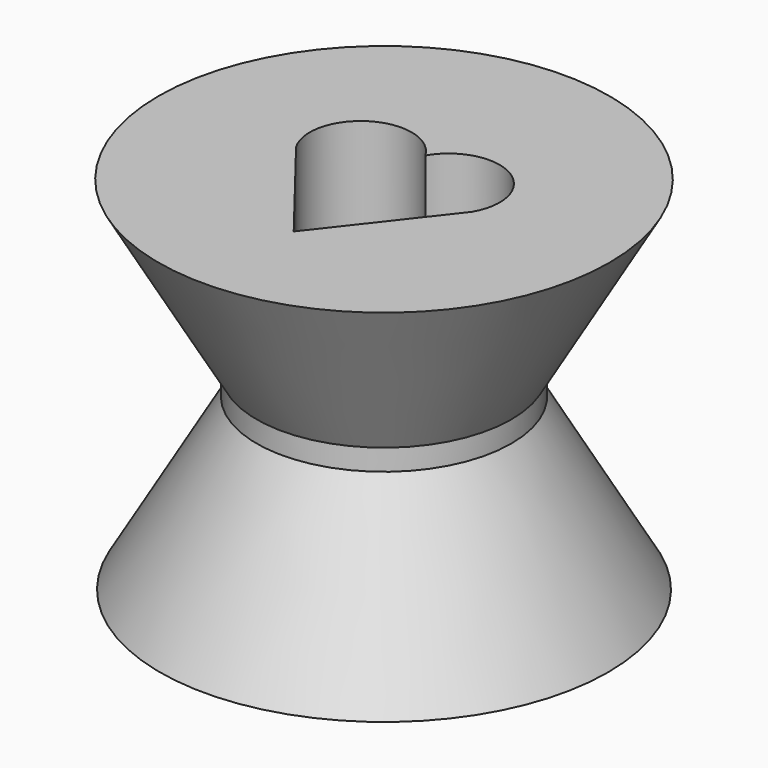
from build123d import *

# Parameters (mm, degrees)
F0_R     = 38.1
F1_DEPTH = 50.8
F1_TAPER = -30
F2_DEPTH = 6.35
F3_R     = 37.6838107833
F4_DEPTH = 50.8
F4_TAPER = -30
F6_DEPTH = 127


with BuildPart() as f1:
    # F0 (on Top) → F1 (new body)
    with BuildSketch(Plane.XY):
        Circle(F0_R)
    extrude(amount=F1_DEPTH, taper=F1_TAPER)

    # F0 (on Top) → F2 (join)
    with BuildSketch(Plane.XY):
        Circle(F0_R)
    extrude(amount=-F2_DEPTH)

    # F3 (on face) → F4 (join)
    with BuildSketch(Plane(origin=(0, 0, -6.35), x_dir=(1, 0, 0), z_dir=(0, 0, -1))):
        Circle(F3_R)
    extrude(amount=F4_DEPTH, taper=F4_TAPER)

    # F5 (on face) → F6 (cut)
    with BuildSketch(Plane.XY.offset(50.8)):
        with BuildLine():
            Line((-26.2908060104, 0), (0, -33.7482951581))
            Line((0, -33.7482951581), (26.2908060104, 0))
            ThreePointArc((26.2908060104, 0), (20.8795288063, 20.8795288063), (0, 15.4682516023))
            ThreePointArc((0, 15.4682516023), (-20.8795288063, 20.8795288063), (-26.2908060104, 0))
        make_face()
    extrude(amount=-F6_DEPTH, mode=Mode.SUBTRACT)


solid = f1.part
